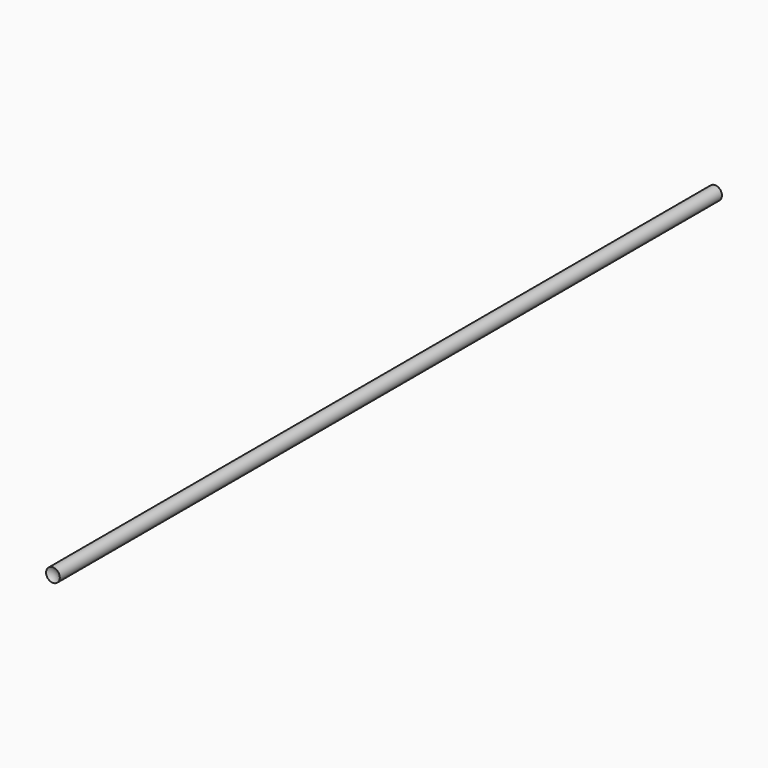
from build123d import *


with BuildPart() as f1:
    # F0 (on Top) → F1 (revolve)
    with BuildSketch(Plane.XY):
        with BuildLine():
            ThreePointArc((0, 175.2375), (-1.543872298, 175.4946848526), (-2.921, 176.2384623822))
            Line((-2.921, 176.2384623822), (-2.921, -176.2384623822))
            ThreePointArc((-2.921, -176.2384623822), (-1.543872298, -175.4946848526), (0, -175.2375))
            Line((0, -175.2375), (0, 175.2375))
        make_face()
    revolve(axis=Axis((0, 0, 0), (0, -1, 0)))


solid = f1.part
